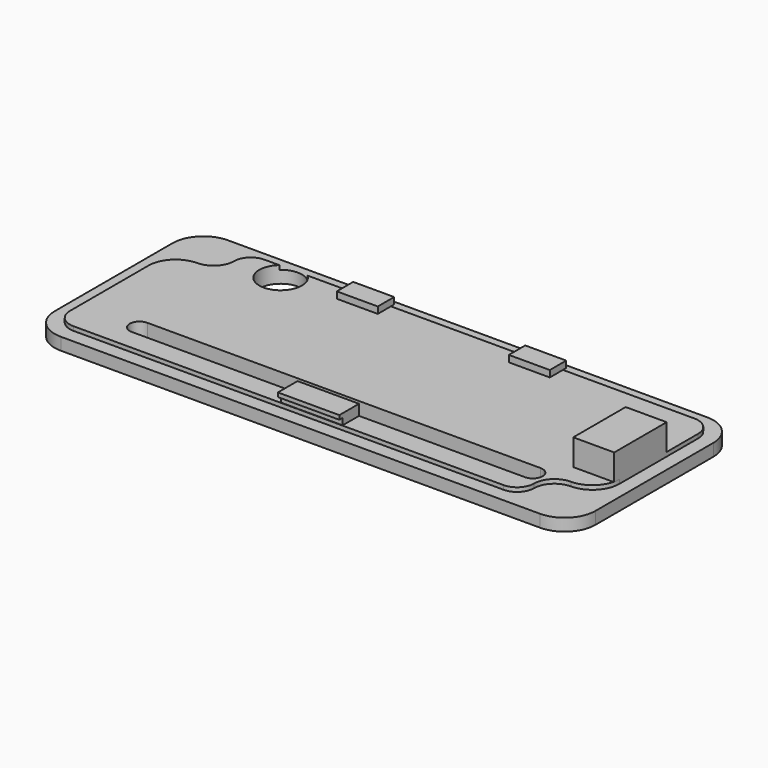
from build123d import *

# Parameters (mm, degrees)
PAD007_DEPTH    = 1.5
PAD008_DEPTH    = 0.5
SKETCH012_W     = 5
SKETCH012_H     = 2.5
SKETCH012_W_2   = 7.5
PAD009_DEPTH    = 0.8
SKETCH013_W     = 7.5
SKETCH013_H     = 3
PAD010_DEPTH    = 0.5
POCKET003_DEPTH = 0.5
POCKET004_DEPTH = 2
SKETCH021_W     = 5
SKETCH021_H     = 8
PAD013_DEPTH    = 3.2
SKETCH024_R     = 2.6
POCKET007_DEPTH = 5.201


with BuildPart() as part:
    # Sketch010 → Pad007 (new body)
    with BuildSketch(Plane.XY.offset(-19)):
        with BuildLine():
            Line((-29.25, 12.75), (29.25, 12.75))
            ThreePointArc((33, 9), (31.9016504294, 11.6516504294), (29.25, 12.75))
            Line((33, 9), (33, -9))
            ThreePointArc((29.25, -12.75), (31.9016504295, -11.6516504294), (33, -9))
            Line((29.25, -12.75), (-29.25, -12.75))
            ThreePointArc((-33, -9), (-31.9016504294, -11.6516504295), (-29.25, -12.75))
            Line((-33, -9), (-33, 9))
            ThreePointArc((-29.25, 12.75), (-31.9016504294, 11.6516504294), (-33, 9))
        make_face()
    extrude(amount=PAD007_DEPTH)

    # Sketch011 → Pad008 (new body)
    with BuildSketch(Plane.XY.offset(-17.5)):
        with BuildLine():
            Line((-29.05, 11.05), (29.05, 11.05))
            ThreePointArc((31.3, 8.8), (30.6409902577, 10.3909902577), (29.05, 11.05))
            Line((31.3, 8.8), (31.3, -8.8))
            ThreePointArc((29.05, -11.05), (30.6409902577, -10.3909902577), (31.3, -8.8))
            Line((29.05, -11.05), (-29.05, -11.05))
            ThreePointArc((-31.3, -8.8), (-30.6409902577, -10.3909902577), (-29.05, -11.05))
            Line((-31.3, -8.8), (-31.3, 8.8))
            ThreePointArc((-29.05, 11.05), (-30.6409902577, 10.3909902577), (-31.3, 8.8))
        make_face()
    extrude(amount=PAD008_DEPTH)

    # Sketch012 → Pad009 (new body)
    with BuildSketch(Plane.XY.offset(-17)):
        with Locations((-10.5, 10.3)):
            Rectangle(SKETCH012_W, SKETCH012_H)
        with Locations((10.5, 10.3)):
            Rectangle(SKETCH012_W, SKETCH012_H)
        with Locations((0, -9.75)):
            Rectangle(SKETCH012_W_2, SKETCH012_H)
    extrude(amount=PAD009_DEPTH)

    # Sketch013 → Pad010 (new body)
    with BuildSketch(Plane.XY.offset(-16.2)):
        with Locations((0, -10)):
            Rectangle(SKETCH013_W, SKETCH013_H)
    extrude(amount=PAD010_DEPTH)

    # Sketch016 → Pocket003 (cut)
    with BuildSketch(Plane.XY.offset(-17)):
        with BuildLine():
            ThreePointArc((28.00000543, -6.5), (26.2322368866, -7.2322292075), (25.5, -8.99999457))
            ThreePointArc((23.4499998257, -11.05), (24.8995699389, -10.4495662225), (25.5, -8.99999457))
            Line((23.4499998257, -11.25), (23.4499998257, -11.05))
            Line((31.5, -11.25), (23.4499998257, -11.25))
            Line((31.5, -3.1999998258), (31.5, -11.25))
            Line((31.3, -3.1999998258), (31.5, -3.1999998258))
            ThreePointArc((28.00000543, -6.5), (30.3334594583, -5.5334554955), (31.3, -3.1999998258))
        make_face()
        with BuildLine():
            Line((-23.4499998257, 11.05), (-23.4499998257, 11.25))
            Line((-23.4499998257, 11.25), (-31.5, 11.25))
            Line((-31.5, 11.25), (-31.5, 3.1999998257))
            Line((-31.5, 3.1999998257), (-31.3, 3.1999998257))
            ThreePointArc((-27.9999999386, 6.5), (-30.3334523833, 5.5334523035), (-31.3, 3.1999998257))
            ThreePointArc((-27.9999999386, 6.5), (-26.2322330036, 7.2322330904), (-25.5, 9.0000000614))
            ThreePointArc((-23.4499998257, 11.05), (-24.8995688016, 10.4495689682), (-25.5, 9.0000000614))
        make_face()
    extrude(amount=-POCKET003_DEPTH, mode=Mode.SUBTRACT)

    # Sketch017 → Pocket004 (cut)
    with BuildSketch(Plane.XY.offset(-17)):
        with BuildLine():
            ThreePointArc((-24, -6.1), (-25.2, -7.3), (-24, -8.5))
            Line((-24, -8.5), (24, -8.5))
            ThreePointArc((24, -8.5), (25.2, -7.3), (24, -6.1))
            Line((-24, -6.1), (24, -6.1))
        make_face()
    extrude(amount=-POCKET004_DEPTH, mode=Mode.SUBTRACT)

    # Sketch021 → Pad013 (new body)
    with BuildSketch(Plane.XY.offset(-17)):
        with Locations((28.8, 0)):
            Rectangle(SKETCH021_W, SKETCH021_H)
    extrude(amount=PAD013_DEPTH)

    # Sketch024 → Pocket007 (cut, through all)
    with BuildSketch(Plane(origin=(0, 0, -19), x_dir=(1, 0, 0), z_dir=(0, 0, -1))):
        with Locations((-19.9, -9.1)):
            Circle(SKETCH024_R)
    extrude(amount=-POCKET007_DEPTH, mode=Mode.SUBTRACT)


solid = part.part
